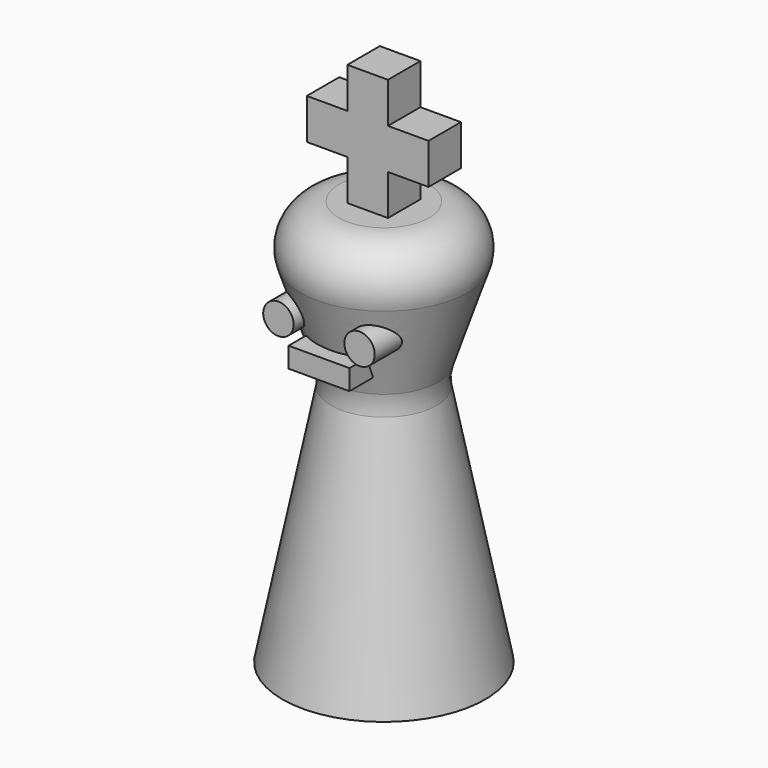
from build123d import *

# Parameters (mm, degrees)
F2_R     = 5.08
F4_DEPTH = 2.54
F5_R     = 1.905
F5_W     = 7.62
F5_H     = 2.54
F6_DEPTH = 10.16


with BuildPart() as f1:
    # F0 (on Front) → F1 (revolve)
    with BuildSketch(Plane.XZ):
        Polygon((6.35, 31.75), (0, 0), (12.7, 0), (12.7, 50.8), (0, 50.8), align=None)
    revolve(axis=Axis((12.7, 0, 25.4), (0, 0, -1)))

    # F2
    f2_edges = [f1.edges().sort_by_distance(p)[0] for p in [
        (19.05, 0, 31.75),
        (25.4, 0, 50.8),
    ]]
    fillet(f2_edges, radius=F2_R)

    # F3 (on Front) → F4 (join, symmetric)
    with BuildSketch(Plane.XZ):
        Polygon((10.16, 55.88), (10.16, 50.8), (15.24, 50.8), (15.24, 55.88), (20.32, 55.88), (20.32, 60.96), (15.24, 60.96), (15.24, 66.04), (10.16, 66.04), (10.16, 60.96), (5.08, 60.96), (5.08, 55.88), align=None)
    extrude(amount=F4_DEPTH, both=True)

    # F5 (on Front) → F6 (join)
    with BuildSketch(Plane.XZ):
        with Locations((7.62, 40.3035629486)):
            Circle(F5_R)
        with Locations((17.78, 40.3035629486)):
            Circle(F5_R)
        with Locations((12.7050772909, 36.4935629486)):
            Rectangle(F5_W, F5_H)
    extrude(amount=F6_DEPTH)


solid = f1.part
